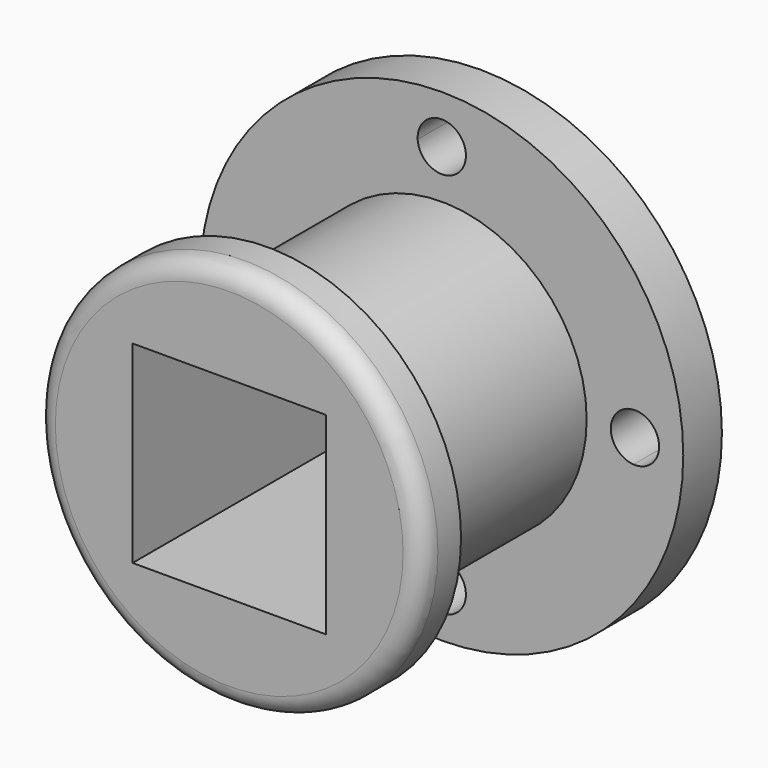
from build123d import *

# Parameters (mm, degrees)
F0_R      = 63.5
F1_DEPTH  = 12.7
F3_DEPTH  = 25.4
F4_R      = 38.1
F5_DEPTH  = 57.15
F6_R      = 50.8
F7_DEPTH  = 12.7
F8_R      = 5.08
F10_W     = 50.8
F10_H     = 50.8
F11_DEPTH = 127


with BuildPart() as f1:
    # F0 (on Front) → F1 (new body)
    with BuildSketch(Plane.XZ):
        Circle(F0_R)
    extrude(amount=F1_DEPTH)

    # F2 (on face) → F3 (cut)
    with BuildSketch(Plane.XZ.offset(12.7)):
        with BuildLine():
            ThreePointArc((-50.403125, -6.3375855209), (-50.8, 0), (-50.403125, 6.3375855209))
            ThreePointArc((-50.403125, 6.3375855209), (-57.15, 0), (-50.403125, -6.3375855209))
        make_face()
        with BuildLine():
            ThreePointArc((-44.45, 0), (-46.1716819335, 4.3475478002), (-50.403125, 6.3375855209))
            ThreePointArc((-50.403125, 6.3375855209), (-50.8, 0), (-50.403125, -6.3375855209))
            ThreePointArc((-50.403125, -6.3375855209), (-46.1716819335, -4.3475478002), (-44.45, 0))
        make_face()
        with BuildLine():
            ThreePointArc((-6.3375855209, 50.403125), (0, 44.45), (6.3375855209, 50.403125))
            ThreePointArc((6.3375855209, 50.403125), (0, 50.8), (-6.3375855209, 50.403125))
        make_face()
        with BuildLine():
            ThreePointArc((-6.3375855209, 50.403125), (0, 50.8), (6.3375855209, 50.403125))
            ThreePointArc((6.3375855209, 50.403125), (6.3468956214, 50.6014654407), (6.35, 50.8))
            ThreePointArc((6.35, 50.8), (-0.1985345593, 57.1468956214), (-6.3375855209, 50.403125))
        make_face()
        with BuildLine():
            ThreePointArc((50.403125, -6.3375855209), (50.700684167, -3.175), (50.8, 0))
            ThreePointArc((50.8, 0), (50.700684167, 3.175), (50.403125, 6.3375855209))
            ThreePointArc((50.403125, 6.3375855209), (44.45, 0), (50.403125, -6.3375855209))
        make_face()
        with BuildLine():
            ThreePointArc((50.403125, 6.3375855209), (50.700684167, 3.175), (50.8, 0))
            ThreePointArc((50.8, 0), (50.700684167, -3.175), (50.403125, -6.3375855209))
            ThreePointArc((50.403125, -6.3375855209), (55.1475478002, -4.6283180665), (57.15, 0))
            ThreePointArc((57.15, 0), (55.1475478002, 4.6283180665), (50.403125, 6.3375855209))
        make_face()
        with BuildLine():
            ThreePointArc((-6.3375855209, -50.403125), (0, -50.8), (6.3375855209, -50.403125))
            ThreePointArc((6.3375855209, -50.403125), (0, -44.45), (-6.3375855209, -50.403125))
        make_face()
        with BuildLine():
            ThreePointArc((6.35, -50.8), (6.3468956214, -50.6014654407), (6.3375855209, -50.403125))
            ThreePointArc((6.3375855209, -50.403125), (0, -50.8), (-6.3375855209, -50.403125))
            ThreePointArc((-6.3375855209, -50.403125), (-0.1985345593, -57.1468956214), (6.35, -50.8))
        make_face()
    extrude(amount=-F3_DEPTH, mode=Mode.SUBTRACT)

    # F4 (on face) → F5 (join)
    with BuildSketch(Plane.XZ.offset(12.7)):
        Circle(F4_R)
    extrude(amount=F5_DEPTH)

    # F6 (on face) → F7 (join)
    with BuildSketch(Plane.XZ.offset(69.85)):
        Circle(F6_R)
    extrude(amount=F7_DEPTH)

    # F8
    f8_edges = [f1.edges().sort_by_distance(p)[0] for p in [
        (-50.8, -82.55, 0),
    ]]
    fillet(f8_edges, radius=F8_R)

    # F10 (on face) → F11 (cut)
    with BuildSketch(Plane.XZ.offset(82.55)):
        Rectangle(F10_W, F10_H)
    extrude(amount=-F11_DEPTH, mode=Mode.SUBTRACT)


solid = f1.part
